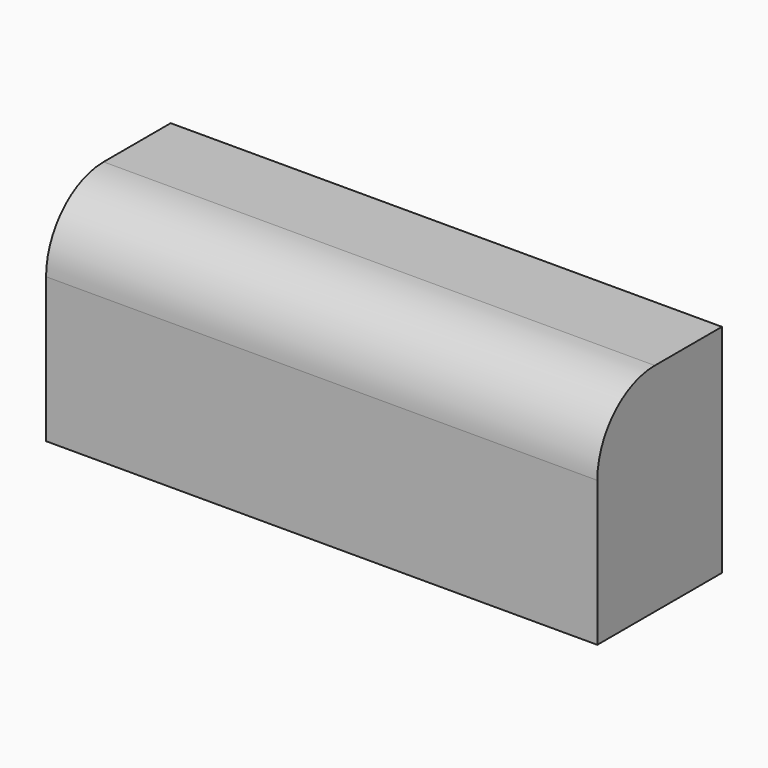
from build123d import *

# Parameters (mm, degrees)
F0_W     = 35.884626
F0_H     = 49.918497
F1_DEPTH = 127
F2_R     = 16.556677


with BuildPart() as f1:
    # F0 (on Right) → F1 (new body)
    with BuildSketch(Plane.YZ):
        with Locations((112.088945, -34.705921)):
            Rectangle(F0_W, F0_H)
    extrude(amount=F1_DEPTH)

    # F2
    f2_edges = [f1.edges().sort_by_distance(p)[0] for p in [
        (63.5, 94.146632, -9.746673),
    ]]
    fillet(f2_edges, radius=F2_R)


solid = f1.part
